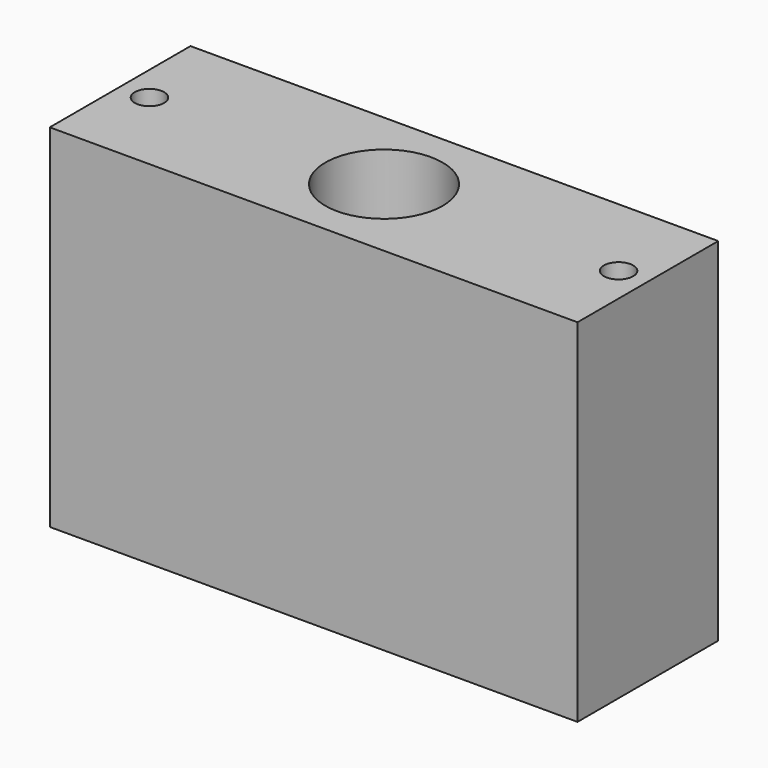
from build123d import *

# Parameters (mm, degrees)
F0_W     = 114.3
F0_H     = 38.1
F1_DEPTH = 76.2
F2_R     = 12.7
F3_DEPTH = 85.598
F4_R     = 3.175
F5_DEPTH = 90.678
F6_R     = 3.175
F7_DEPTH = 90.678


with BuildPart() as f1:
    # F0 (on Top) → F1 (new body)
    with BuildSketch(Plane.XY):
        with Locations((29.87668, 19.05)):
            Rectangle(F0_W, F0_H)
    extrude(amount=F1_DEPTH)

    # F2 (on Top) → F3 (cut)
    with BuildSketch(Plane.XY):
        with Locations((29.87668, 19.05)):
            Circle(F2_R)
    extrude(amount=F3_DEPTH, mode=Mode.SUBTRACT)

    # F4 (on Top) → F5 (cut)
    with BuildSketch(Plane.XY):
        with Locations((-20.92332, 19.05)):
            Circle(F4_R)
    extrude(amount=F5_DEPTH, mode=Mode.SUBTRACT)

    # F6 (on Top) → F7 (cut)
    with BuildSketch(Plane.XY):
        with Locations((80.67668, 19.05)):
            Circle(F6_R)
    extrude(amount=F7_DEPTH, mode=Mode.SUBTRACT)


solid = f1.part
